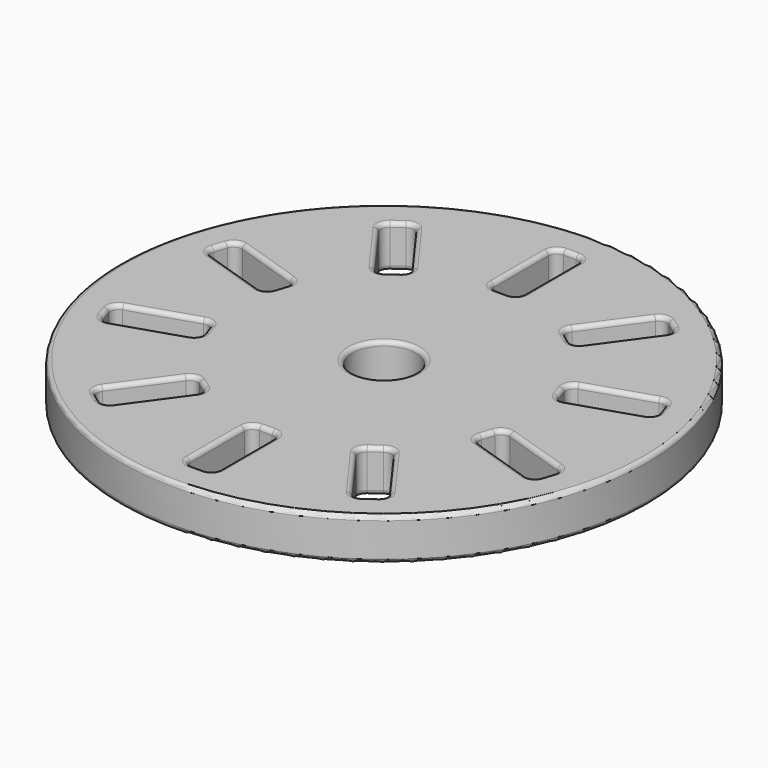
from build123d import *

# Parameters (mm, degrees)
F0_R     = 12.5
F0_R_2   = 1.5
F1_DEPTH = 2
F2_R     = 0.2


with BuildPart() as f1:
    # F0 (on Top) → F1 (new body)
    with BuildSketch(Plane.XY):
        Circle(F0_R)
        with BuildLine():
            ThreePointArc((-6.7083428735, -8.7228513624), (-6.8683041089, -8.4618183507), (-6.7968355704, -8.1641304638))
            Line((-6.7968355704, -8.1641304638), (-4.915922763, -5.5752760818))
            ThreePointArc((-4.915922763, -5.5752760818), (-4.6548897513, -5.4153148464), (-4.3572018644, -5.4867833849))
            Line((-4.3572018644, -5.4867833849), (-3.8717916677, -5.8394545363))
            ThreePointArc((-3.8717916677, -5.8394545363), (-3.7118304324, -6.100487548), (-3.7832989709, -6.398175435))
            Line((-3.7832989709, -6.398175435), (-5.6642117782, -8.987029817))
            ThreePointArc((-5.6642117782, -8.987029817), (-5.92524479, -9.1469910523), (-6.2229326769, -9.0755225138))
            Line((-6.2229326769, -9.0755225138), (-6.7083428735, -8.7228513624))
        make_face(mode=Mode.SUBTRACT)
        with BuildLine():
            ThreePointArc((-10.5543267776, -3.1138699832), (-10.5303067807, -2.8086669856), (-10.2975109688, -2.609840579))
            Line((-10.2975109688, -2.609840579), (-7.2541301166, -1.620986197))
            ThreePointArc((-7.2541301166, -1.620986197), (-6.948927119, -1.6450061938), (-6.7501007124, -1.8778020057))
            Line((-6.7501007124, -1.8778020057), (-6.5646905158, -2.4484359155))
            ThreePointArc((-6.5646905158, -2.4484359155), (-6.5887105126, -2.7536389132), (-6.8215063245, -2.9524653198))
            Line((-6.8215063245, -2.9524653198), (-9.8648871767, -3.9413197018))
            ThreePointArc((-9.8648871767, -3.9413197018), (-10.1700901743, -3.9172997049), (-10.3689165809, -3.684503893))
            Line((-10.3689165809, -3.684503893), (-10.5543267776, -3.1138699832))
        make_face(mode=Mode.SUBTRACT)
        with BuildLine():
            ThreePointArc((-0.3, -11), (-0.5828427125, -10.8828427125), (-0.7, -10.6))
            Line((-0.7, -10.6), (-0.7, -7.4))
            ThreePointArc((-0.7, -7.4), (-0.5828427125, -7.1171572875), (-0.3, -7))
            Line((-0.3, -7), (0.3, -7))
            ThreePointArc((0.3, -7), (0.5828427125, -7.1171572875), (0.7, -7.4))
            Line((0.7, -7.4), (0.7, -10.6))
            ThreePointArc((0.7, -10.6), (0.5828427125, -10.8828427125), (0.3, -11))
            Line((0.3, -11), (-0.3, -11))
        make_face(mode=Mode.SUBTRACT)
        with BuildLine():
            ThreePointArc((6.2229326769, -9.0755225138), (5.92524479, -9.1469910523), (5.6642117782, -8.987029817))
            Line((5.6642117782, -8.987029817), (3.7832989709, -6.398175435))
            ThreePointArc((3.7832989709, -6.398175435), (3.7118304324, -6.100487548), (3.8717916677, -5.8394545363))
            Line((3.8717916677, -5.8394545363), (4.3572018644, -5.4867833849))
            ThreePointArc((4.3572018644, -5.4867833849), (4.6548897513, -5.4153148464), (4.915922763, -5.5752760818))
            Line((4.915922763, -5.5752760818), (6.7968355704, -8.1641304638))
            ThreePointArc((6.7968355704, -8.1641304638), (6.8683041089, -8.4618183507), (6.7083428735, -8.7228513624))
            Line((6.7083428735, -8.7228513624), (6.2229326769, -9.0755225138))
        make_face(mode=Mode.SUBTRACT)
        with BuildLine():
            ThreePointArc((10.3689165809, -3.684503893), (10.1700901743, -3.9172997049), (9.8648871767, -3.9413197018))
            Line((9.8648871767, -3.9413197018), (6.8215063245, -2.9524653198))
            ThreePointArc((6.8215063245, -2.9524653198), (6.5887105126, -2.7536389132), (6.5646905158, -2.4484359155))
            Line((6.5646905158, -2.4484359155), (6.7501007124, -1.8778020057))
            ThreePointArc((6.7501007124, -1.8778020057), (6.948927119, -1.6450061938), (7.2541301166, -1.620986197))
            Line((7.2541301166, -1.620986197), (10.2975109688, -2.609840579))
            ThreePointArc((10.2975109688, -2.609840579), (10.5303067807, -2.8086669856), (10.5543267776, -3.1138699832))
            Line((10.5543267776, -3.1138699832), (10.3689165809, -3.684503893))
        make_face(mode=Mode.SUBTRACT)
        with BuildLine():
            ThreePointArc((-10.3689165809, 3.684503893), (-10.1700901743, 3.9172997049), (-9.8648871767, 3.9413197018))
            Line((-9.8648871767, 3.9413197018), (-6.8215063245, 2.9524653198))
            ThreePointArc((-6.8215063245, 2.9524653198), (-6.5887105126, 2.7536389132), (-6.5646905158, 2.4484359155))
            Line((-6.5646905158, 2.4484359155), (-6.7501007124, 1.8778020057))
            ThreePointArc((-6.7501007124, 1.8778020057), (-6.948927119, 1.6450061938), (-7.2541301166, 1.620986197))
            Line((-7.2541301166, 1.620986197), (-10.2975109688, 2.609840579))
            ThreePointArc((-10.2975109688, 2.609840579), (-10.5303067807, 2.8086669856), (-10.5543267776, 3.1138699832))
            Line((-10.5543267776, 3.1138699832), (-10.3689165809, 3.684503893))
        make_face(mode=Mode.SUBTRACT)
        with BuildLine():
            ThreePointArc((-6.2229326769, 9.0755225138), (-5.92524479, 9.1469910523), (-5.6642117782, 8.987029817))
            Line((-5.6642117782, 8.987029817), (-3.7832989709, 6.398175435))
            ThreePointArc((-3.7832989709, 6.398175435), (-3.7118304324, 6.100487548), (-3.8717916677, 5.8394545363))
            Line((-3.8717916677, 5.8394545363), (-4.3572018644, 5.4867833849))
            ThreePointArc((-4.3572018644, 5.4867833849), (-4.6548897513, 5.4153148464), (-4.915922763, 5.5752760818))
            Line((-4.915922763, 5.5752760818), (-6.7968355704, 8.1641304638))
            ThreePointArc((-6.7968355704, 8.1641304638), (-6.8683041089, 8.4618183507), (-6.7083428735, 8.7228513624))
            Line((-6.7083428735, 8.7228513624), (-6.2229326769, 9.0755225138))
        make_face(mode=Mode.SUBTRACT)
        Circle(F0_R_2, mode=Mode.SUBTRACT)
        with BuildLine():
            ThreePointArc((10.5543267776, 3.1138699832), (10.5303067807, 2.8086669856), (10.2975109688, 2.609840579))
            Line((10.2975109688, 2.609840579), (7.2541301166, 1.620986197))
            ThreePointArc((7.2541301166, 1.620986197), (6.948927119, 1.6450061938), (6.7501007124, 1.8778020057))
            Line((6.7501007124, 1.8778020057), (6.5646905158, 2.4484359155))
            ThreePointArc((6.5646905158, 2.4484359155), (6.5887105126, 2.7536389132), (6.8215063245, 2.9524653198))
            Line((6.8215063245, 2.9524653198), (9.8648871767, 3.9413197018))
            ThreePointArc((9.8648871767, 3.9413197018), (10.1700901743, 3.9172997049), (10.3689165809, 3.684503893))
            Line((10.3689165809, 3.684503893), (10.5543267776, 3.1138699832))
        make_face(mode=Mode.SUBTRACT)
        with BuildLine():
            Line((-0.3, 11), (0.3, 11))
            ThreePointArc((0.3, 11), (0.5828427125, 10.8828427125), (0.7, 10.6))
            Line((0.7, 10.6), (0.7, 7.4))
            ThreePointArc((0.7, 7.4), (0.5828427125, 7.1171572875), (0.3, 7))
            Line((0.3, 7), (-0.3, 7))
            ThreePointArc((-0.3, 7), (-0.5828427125, 7.1171572875), (-0.7, 7.4))
            Line((-0.7, 7.4), (-0.7, 10.6))
            ThreePointArc((-0.7, 10.6), (-0.5828427125, 10.8828427125), (-0.3, 11))
        make_face(mode=Mode.SUBTRACT)
        with BuildLine():
            ThreePointArc((6.7083428735, 8.7228513624), (6.8683041089, 8.4618183507), (6.7968355704, 8.1641304638))
            Line((6.7968355704, 8.1641304638), (4.915922763, 5.5752760818))
            ThreePointArc((4.915922763, 5.5752760818), (4.6548897513, 5.4153148464), (4.3572018644, 5.4867833849))
            Line((4.3572018644, 5.4867833849), (3.8717916677, 5.8394545363))
            ThreePointArc((3.8717916677, 5.8394545363), (3.7118304324, 6.100487548), (3.7832989709, 6.398175435))
            Line((3.7832989709, 6.398175435), (5.6642117782, 8.987029817))
            ThreePointArc((5.6642117782, 8.987029817), (5.92524479, 9.1469910523), (6.2229326769, 9.0755225138))
            Line((6.2229326769, 9.0755225138), (6.7083428735, 8.7228513624))
        make_face(mode=Mode.SUBTRACT)
    extrude(amount=F1_DEPTH)

    # F2
    f2_edges = [f1.edges().sort_by_distance(p)[0] for p in [
        (-12.5, 0, 2),
        (-6.465638, -8.899187, 2),
        (-6.868304, -8.461818, 2),
        (-5.856379, -6.869703, 2),
        (-4.65489, -5.415315, 2),
        (-4.114497, -5.663119, 2),
        (-3.71183, -6.100488, 2),
        (-4.723755, -7.692603, 2),
        (-5.925245, -9.146991, 2),
        (-10.530307, -2.808667, 2),
        (-8.775821, -2.115413, 2),
        (-6.948927, -1.645006, 2),
        (-6.657396, -2.163119, 2),
        (-6.588711, -2.753639, 2),
        (-8.343197, -3.446893, 2),
        (-10.17009, -3.9173, 2),
        (-10.461622, -3.399187, 2),
        (0.582843, -10.882843, 2),
        (0, -11, 2),
        (-0.582843, -10.882843, 2),
        (-0.7, -9, 2),
        (-0.582843, -7.117157, 2),
        (0, -7, 2),
        (0.582843, -7.117157, 2),
        (0.7, -9, 2),
        (5.925245, -9.146991, 2),
        (4.723755, -7.692603, 2),
        (3.71183, -6.100488, 2),
        (4.114497, -5.663119, 2),
        (4.65489, -5.415315, 2),
        (5.856379, -6.869703, 2),
        (6.868304, -8.461818, 2),
        (6.465638, -8.899187, 2),
        (10.461622, -3.399187, 2),
        (10.17009, -3.9173, 2),
        (8.343197, -3.446893, 2),
        (6.588711, -2.753639, 2),
        (6.657396, -2.163119, 2),
        (6.948927, -1.645006, 2),
        (8.775821, -2.115413, 2),
        (10.530307, -2.808667, 2),
        (-10.530307, 2.808667, 2),
        (-10.461622, 3.399187, 2),
        (-10.17009, 3.9173, 2),
        (-8.343197, 3.446893, 2),
        (-6.588711, 2.753639, 2),
        (-6.657396, 2.163119, 2),
        (-6.948927, 1.645006, 2),
        (-8.775821, 2.115413, 2),
        (-6.465638, 8.899187, 2),
        (-5.925245, 9.146991, 2),
        (-4.723755, 7.692603, 2),
        (-3.71183, 6.100488, 2),
        (-4.114497, 5.663119, 2),
        (-4.65489, 5.415315, 2),
        (-5.856379, 6.869703, 2),
        (-6.868304, 8.461818, 2),
        (-1.5, 0, 2),
        (10.461622, 3.399187, 2),
        (10.530307, 2.808667, 2),
        (8.775821, 2.115413, 2),
        (6.948927, 1.645006, 2),
        (6.657396, 2.163119, 2),
        (6.588711, 2.753639, 2),
        (8.343197, 3.446893, 2),
        (10.17009, 3.9173, 2),
        (-0.7, 9, 2),
        (-0.582843, 10.882843, 2),
        (0, 11, 2),
        (0.582843, 10.882843, 2),
        (0.7, 9, 2),
        (0.582843, 7.117157, 2),
        (0, 7, 2),
        (-0.582843, 7.117157, 2),
        (6.465638, 8.899187, 2),
        (6.868304, 8.461818, 2),
        (5.856379, 6.869703, 2),
        (4.65489, 5.415315, 2),
        (4.114497, 5.663119, 2),
        (3.71183, 6.100488, 2),
        (4.723755, 7.692603, 2),
        (5.925245, 9.146991, 2),
        (-12.5, 0, 0),
        (-6.465638, -8.899187, 0),
        (-6.868304, -8.461818, 0),
        (-5.856379, -6.869703, 0),
        (-4.65489, -5.415315, 0),
        (-4.114497, -5.663119, 0),
        (-3.71183, -6.100488, 0),
        (-4.723755, -7.692603, 0),
        (-5.925245, -9.146991, 0),
        (-10.530307, -2.808667, 0),
        (-8.775821, -2.115413, 0),
        (-6.948927, -1.645006, 0),
        (-6.657396, -2.163119, 0),
        (-6.588711, -2.753639, 0),
        (-8.343197, -3.446893, 0),
        (-10.17009, -3.9173, 0),
        (-10.461622, -3.399187, 0),
        (0.582843, -10.882843, 0),
        (0, -11, 0),
        (-0.582843, -10.882843, 0),
        (-0.7, -9, 0),
        (-0.582843, -7.117157, 0),
        (0, -7, 0),
        (0.582843, -7.117157, 0),
        (0.7, -9, 0),
        (5.925245, -9.146991, 0),
        (4.723755, -7.692603, 0),
        (3.71183, -6.100488, 0),
        (4.114497, -5.663119, 0),
        (4.65489, -5.415315, 0),
        (5.856379, -6.869703, 0),
        (6.868304, -8.461818, 0),
        (6.465638, -8.899187, 0),
        (10.461622, -3.399187, 0),
        (10.17009, -3.9173, 0),
        (8.343197, -3.446893, 0),
        (6.588711, -2.753639, 0),
        (6.657396, -2.163119, 0),
        (6.948927, -1.645006, 0),
        (8.775821, -2.115413, 0),
        (10.530307, -2.808667, 0),
        (-10.530307, 2.808667, 0),
        (-10.461622, 3.399187, 0),
        (-10.17009, 3.9173, 0),
        (-8.343197, 3.446893, 0),
        (-6.588711, 2.753639, 0),
        (-6.657396, 2.163119, 0),
        (-6.948927, 1.645006, 0),
        (-8.775821, 2.115413, 0),
        (-6.465638, 8.899187, 0),
        (-5.925245, 9.146991, 0),
        (-4.723755, 7.692603, 0),
        (-3.71183, 6.100488, 0),
        (-4.114497, 5.663119, 0),
        (-4.65489, 5.415315, 0),
        (-5.856379, 6.869703, 0),
        (-6.868304, 8.461818, 0),
        (-1.5, 0, 0),
        (10.461622, 3.399187, 0),
        (10.530307, 2.808667, 0),
        (8.775821, 2.115413, 0),
        (6.948927, 1.645006, 0),
        (6.657396, 2.163119, 0),
        (6.588711, 2.753639, 0),
        (8.343197, 3.446893, 0),
        (10.17009, 3.9173, 0),
        (-0.7, 9, 0),
        (-0.582843, 10.882843, 0),
        (0, 11, 0),
        (0.582843, 10.882843, 0),
        (0.7, 9, 0),
        (0.582843, 7.117157, 0),
        (0, 7, 0),
        (-0.582843, 7.117157, 0),
        (6.465638, 8.899187, 0),
        (6.868304, 8.461818, 0),
        (5.856379, 6.869703, 0),
        (4.65489, 5.415315, 0),
        (4.114497, 5.663119, 0),
        (3.71183, 6.100488, 0),
        (4.723755, 7.692603, 0),
        (5.925245, 9.146991, 0),
    ]]
    fillet(f2_edges, radius=F2_R)


solid = f1.part
